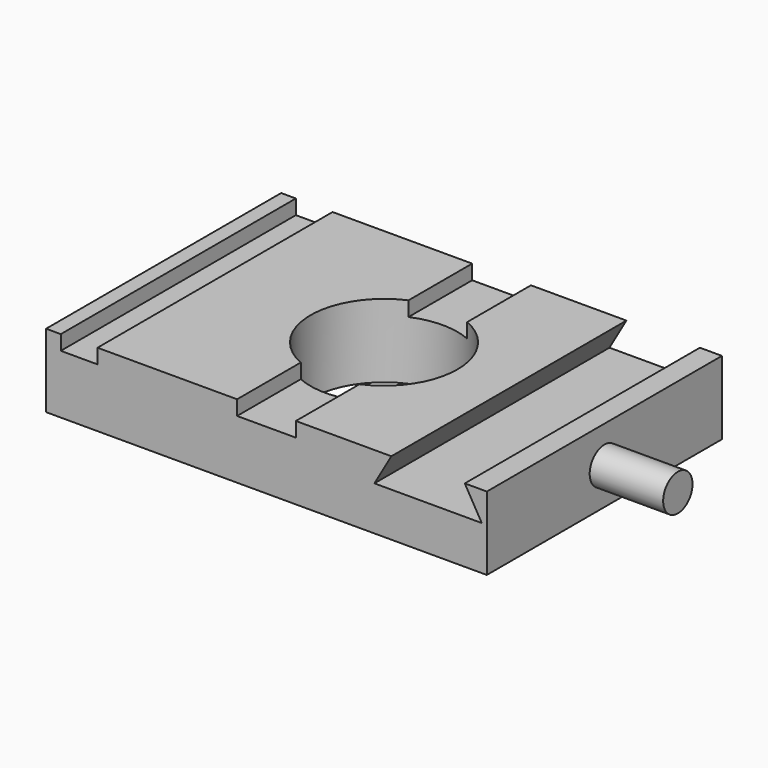
from build123d import *

# Parameters (mm, degrees)
F0_W     = 76.2
F0_H     = 50.8
F0_R     = 12.7
F1_DEPTH = 12.7
F2_W     = 6.35
F2_H     = 50.8
F3_DEPTH = 2.54
F5_DEPTH = 50.8508
F6_R     = 3.175
F7_DEPTH = 12.7


with BuildPart() as f1:
    # F0 (on Top) → F1 (new body)
    with BuildSketch(Plane.XY):
        Rectangle(F0_W, F0_H)
        Circle(F0_R, mode=Mode.SUBTRACT)
    extrude(amount=F1_DEPTH)

    # F2 (on face) → F3 (cut)
    with BuildSketch(Plane.XY.offset(12.7)):
        with BuildLine():
            ThreePointArc((5.08, -11.639742), (0, -12.7), (-5.08, -11.639742))
            Line((-5.08, -11.639742), (-5.08, -25.4))
            Line((-5.08, -25.4), (5.08, -25.4))
            Line((5.08, -25.4), (5.08, -11.639742))
        make_face()
        with BuildLine():
            Line((5.08, 25.4), (-5.08, 25.4))
            Line((-5.08, 25.4), (-5.08, 11.639742))
            ThreePointArc((-5.08, 11.639742), (0, 12.7), (5.08, 11.639742))
            Line((5.08, 11.639742), (5.08, 25.4))
        make_face()
        with Locations((-32.385, 0)):
            Rectangle(F2_W, F2_H)
    extrude(amount=-F3_DEPTH, mode=Mode.SUBTRACT)

    # F4 (on face) → F5 (cut)
    with BuildSketch(Plane.XZ.offset(25.4)):
        Polygon((34.29, 12.7), (21.59, 12.7), (18.657061, 7.62), (37.222939, 7.62), align=None)
    extrude(amount=-F5_DEPTH, mode=Mode.SUBTRACT)

    # F6 (on face) → F7 (join)
    with BuildSketch(Plane.YZ.offset(38.1)):
        with Locations((0, 6.35)):
            Circle(F6_R)
    extrude(amount=F7_DEPTH)


solid = f1.part
